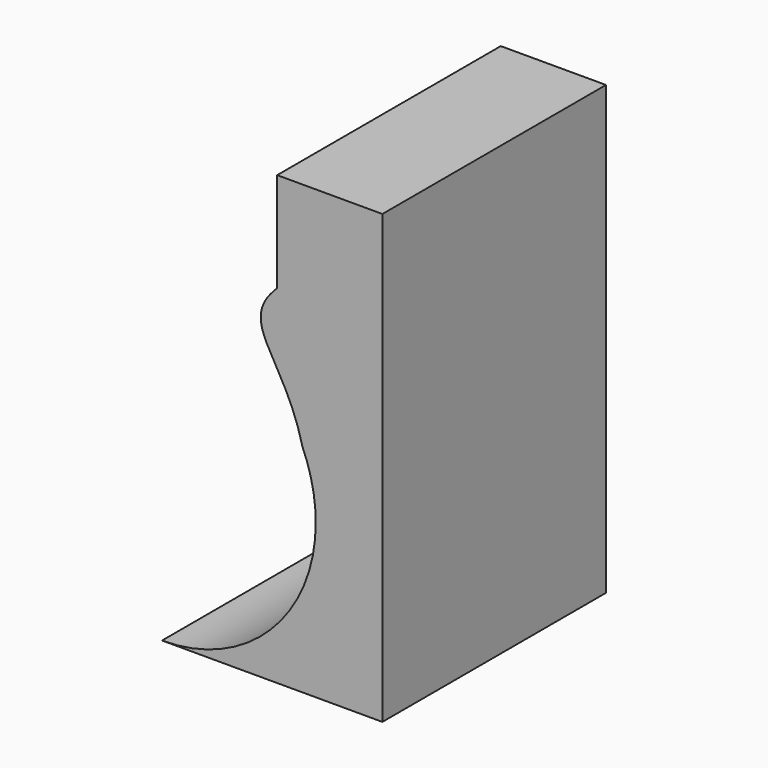
from build123d import *

# Parameters (mm, degrees)
F1_DEPTH = 25


with BuildPart() as f1:
    # F0 (on Front) → F1 (new body)
    with BuildSketch(Plane.XZ):
        with BuildLine():
            ThreePointArc((34.853083, 2.259397), (30.825802, -7.463322), (21.103083, -11.490603))
            Line((21.103083, -11.490603), (40.814798, -11.490603))
            Line((40.814798, -11.490603), (40.814798, 28.509397))
            Line((40.814798, 28.509397), (31.403083, 28.509397))
            Line((31.403083, 28.509397), (31.403083, 19.61224))
            add(Edge.make_bspline(
                [(30.052848, 16.009397), (29.738464, 17.155239), (29.995213, 18.220509), (31.403083, 19.61224)],
                knots=[7.473275, 7.473275, 7.473275, 7.473275, 11.996004, 11.996004, 11.996004, 11.996004], degree=3))
            add(Edge.make_bspline(
                [(32.174361, 11.834774), (31.283192, 13.59518), (30.372606, 14.843964), (30.052848, 16.009397)],
                knots=[2.873226, 2.873226, 2.873226, 2.873226, 7.473275, 7.473275, 7.473275, 7.473275], degree=3))
            add(Edge.make_bspline(
                [(33.672823, 7.832919), (33.280048, 9.436047), (32.730992, 10.735211), (32.174361, 11.834774)],
                knots=[0, 0, 0, 0, 2.873226, 2.873226, 2.873226, 2.873226], degree=3))
            ThreePointArc((33.672823, 7.832919), (34.554782, 5.107956), (34.853083, 2.259397))
        make_face()
    extrude(amount=F1_DEPTH)


solid = f1.part
